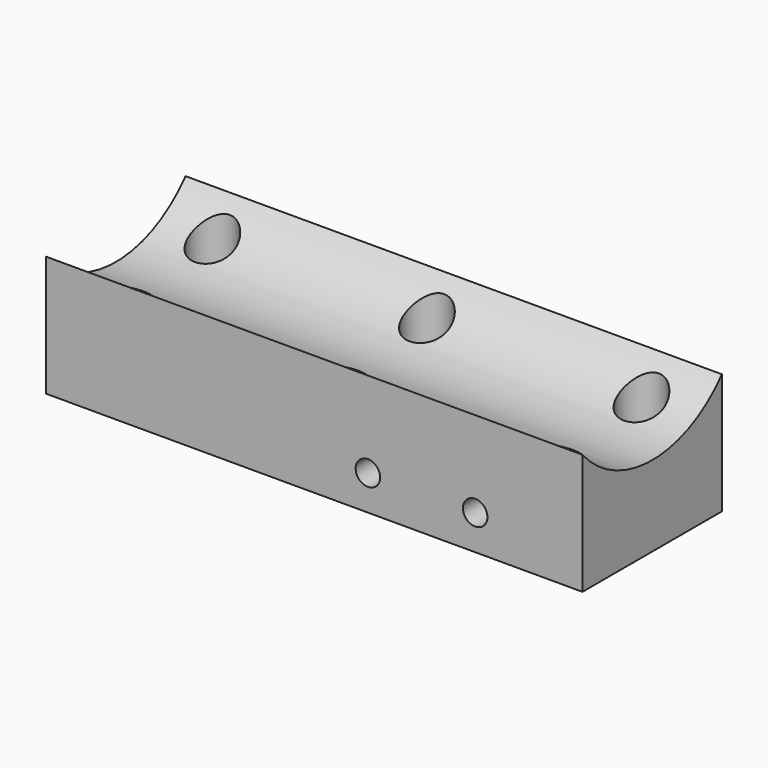
from build123d import *

# Parameters (mm, degrees)
F0_W     = 80
F0_H     = 26
F0_R     = 1.85
F1_DEPTH = 25
F3_R     = 3.25
F3_R_2   = 1.85
F4_DEPTH = 18
F5_DEPTH = 100
F6_R     = 1.825
F7_DEPTH = 90


with BuildPart() as f1:
    # F0 (on Top) → F1 (new body)
    with BuildSketch(Plane.XY):
        Rectangle(F0_W, F0_H)
        with Locations((-32, -8)):
            Circle(F0_R, mode=Mode.SUBTRACT)
        with Locations((0, -8)):
            Circle(F0_R, mode=Mode.SUBTRACT)
        with Locations((32, -8)):
            Circle(F0_R, mode=Mode.SUBTRACT)
        with Locations((-32, 8)):
            Circle(F0_R, mode=Mode.SUBTRACT)
        with Locations((0, 8)):
            Circle(F0_R, mode=Mode.SUBTRACT)
        with Locations((32, 8)):
            Circle(F0_R, mode=Mode.SUBTRACT)
    extrude(amount=F1_DEPTH)

    # F3 (on face) → F4 (cut)
    with BuildSketch(Plane.XY.offset(25)):
        with Locations((-32, -8)):
            Circle(F3_R)
        with Locations((-32, -8)):
            Circle(F3_R_2, mode=Mode.SUBTRACT)
        with Locations((-32, 8)):
            Circle(F3_R)
        with Locations((-32, 8)):
            Circle(F3_R_2, mode=Mode.SUBTRACT)
        with Locations((0, 8)):
            Circle(F3_R)
        with Locations((0, 8)):
            Circle(F3_R_2, mode=Mode.SUBTRACT)
        with Locations((0, -8)):
            Circle(F3_R)
        with Locations((0, -8)):
            Circle(F3_R_2, mode=Mode.SUBTRACT)
        with Locations((32, 8)):
            Circle(F3_R)
        with Locations((32, 8)):
            Circle(F3_R_2, mode=Mode.SUBTRACT)
        with Locations((32, -8)):
            Circle(F3_R)
        with Locations((32, -8)):
            Circle(F3_R_2, mode=Mode.SUBTRACT)
    extrude(amount=-F4_DEPTH, mode=Mode.SUBTRACT)

    # F2 (on face) → F5 (cut)
    with BuildSketch(Plane.YZ.offset(40)):
        with BuildLine():
            Line((-13, 25), (-13, 18))
            ThreePointArc((-13, 18), (0, 12), (13, 18))
            Line((13, 18), (13, 25))
            Line((13, 25), (-13, 25))
        make_face()
    extrude(amount=-F5_DEPTH, mode=Mode.SUBTRACT)

    # F6 (on face) → F7 (cut)
    with BuildSketch(Plane(origin=(0, 13, 0), x_dir=(-1, 0, 0), z_dir=(0, 1, 0))):
        with Locations((-24, 5.2)):
            Circle(F6_R)
        with Locations((-8, 5.2)):
            Circle(F6_R)
    extrude(amount=-F7_DEPTH, mode=Mode.SUBTRACT)


solid = f1.part
